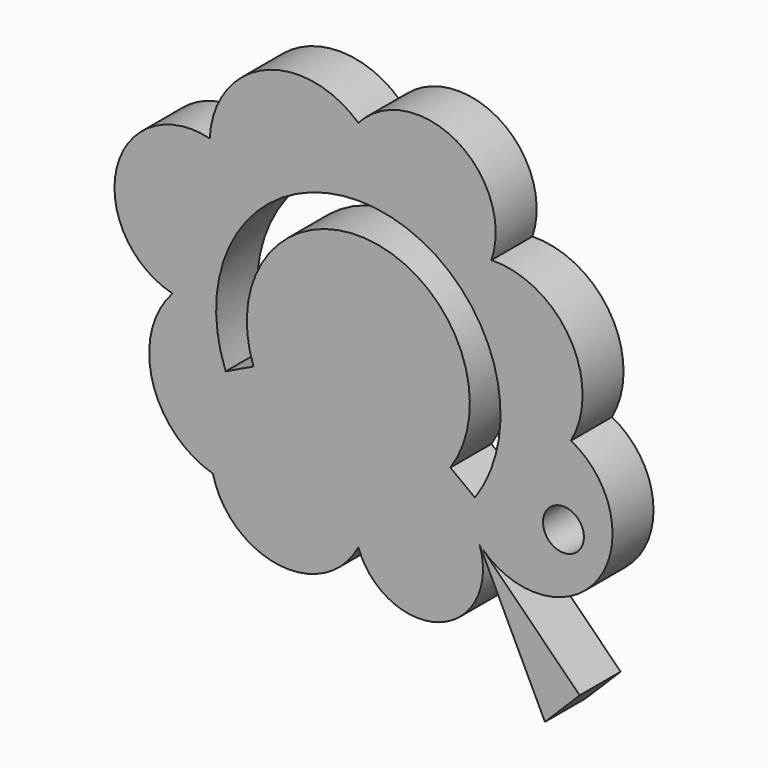
from build123d import *

# Parameters (mm, degrees)
F0_R     = 1.996818
F1_DEPTH = 5


with BuildPart() as f1:
    # F0 (on Front) → F1 (new body)
    with BuildSketch(Plane.XZ):
        with BuildLine():
            Line((21.610825, -21.610825), (12.142085, -12.142085))
            ThreePointArc((12.142085, -12.142085), (11.9869, -11.991304), (11.836119, -11.836119))
            Line((11.836119, -11.836119), (18.22165, -25))
            Line((18.22165, -25), (21.610825, -21.610825))
        make_face()
        with BuildLine():
            ThreePointArc((12.995364, 12.995364), (9.606348, 22.116596), (0, 20.567276))
            ThreePointArc((0, 20.567276), (-9.169556, 22.124513), (-14.50899, 14.50899))
            ThreePointArc((-14.50899, 14.50899), (-23.582926, 9.073935), (-18.147871, 0))
            ThreePointArc((-18.147871, 0), (-20.100872, -8.191779), (-14.202013, -14.202013))
            ThreePointArc((-14.202013, -14.202013), (-7.692092, -19.973667), (0, -15.908843))
            ThreePointArc((0, -15.908843), (7.949116, -19.775122), (11.836119, -11.836119))
            Line((11.836119, -11.836119), (12.142085, -12.142085))
            ThreePointArc((12.142085, -12.142085), (23.43351, -11.027489), (20.762725, 0))
            ThreePointArc((20.762725, 0), (20.663876, 8.759885), (12.995364, 12.995364))
        make_face()
        with Locations((20.027125, -7.881144)):
            Circle(F0_R, mode=Mode.SUBTRACT)
        with BuildLine():
            Line((11.387688, -7.947037), (8.988635, -6.141684))
            ThreePointArc((8.988635, -6.141684), (1.368747, 10.80011), (-10.236573, -3.705186))
            Line((-10.236573, -3.705186), (-12.952552, -5.006617))
            ThreePointArc((-12.952552, -5.006617), (1.665448, 13.786265), (11.387688, -7.947037))
        make_face(mode=Mode.SUBTRACT)
        with BuildLine():
            ThreePointArc((11.836119, -11.836119), (11.9869, -11.991304), (12.142085, -12.142085))
            Line((12.142085, -12.142085), (11.836119, -11.836119))
        make_face()
        with BuildLine():
            ThreePointArc((12.995364, 12.995364), (9.606348, 22.116596), (0, 20.567276))
            ThreePointArc((0, 20.567276), (-9.169556, 22.124513), (-14.50899, 14.50899))
            ThreePointArc((-14.50899, 14.50899), (-23.582926, 9.073935), (-18.147871, 0))
            ThreePointArc((-18.147871, 0), (-20.100872, -8.191779), (-14.202013, -14.202013))
            ThreePointArc((-14.202013, -14.202013), (-7.692092, -19.973667), (0, -15.908843))
            ThreePointArc((0, -15.908843), (7.949116, -19.775122), (11.836119, -11.836119))
            Line((11.836119, -11.836119), (12.142085, -12.142085))
            ThreePointArc((12.142085, -12.142085), (23.43351, -11.027489), (20.762725, 0))
            ThreePointArc((20.762725, 0), (20.663876, 8.759885), (12.995364, 12.995364))
        make_face()
        with Locations((20.027125, -7.881144)):
            Circle(F0_R, mode=Mode.SUBTRACT)
        with BuildLine():
            Line((11.387688, -7.947037), (8.988635, -6.141684))
            ThreePointArc((8.988635, -6.141684), (1.368747, 10.80011), (-10.236573, -3.705186))
            Line((-10.236573, -3.705186), (-12.952552, -5.006617))
            ThreePointArc((-12.952552, -5.006617), (1.665448, 13.786265), (11.387688, -7.947037))
        make_face(mode=Mode.SUBTRACT)
        with BuildLine():
            Line((21.610825, -21.610825), (12.142085, -12.142085))
            ThreePointArc((12.142085, -12.142085), (11.9869, -11.991304), (11.836119, -11.836119))
            Line((11.836119, -11.836119), (18.22165, -25))
            Line((18.22165, -25), (21.610825, -21.610825))
        make_face()
    extrude(amount=F1_DEPTH)


solid = f1.part
